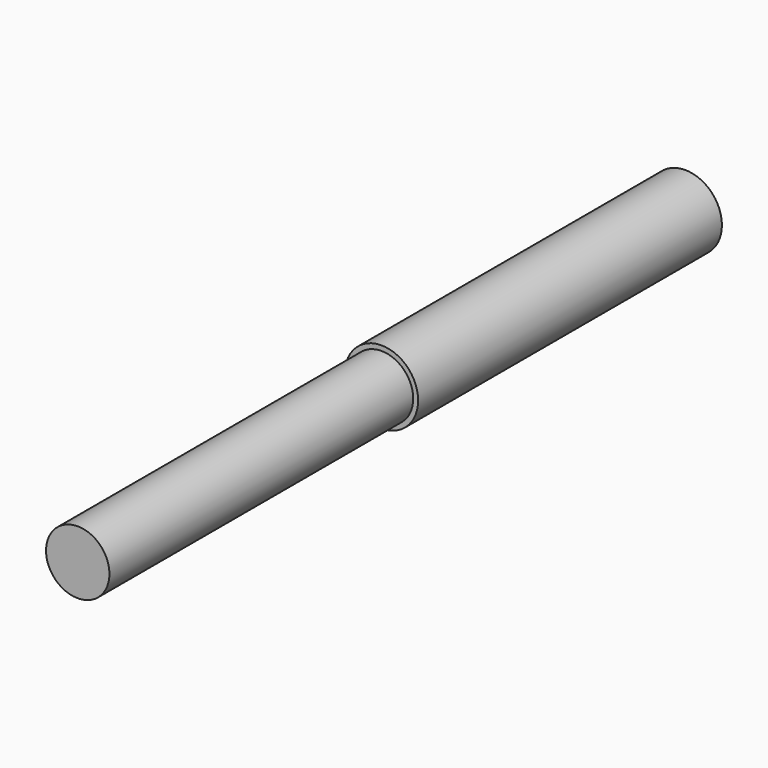
from build123d import *

# Parameters (mm, degrees)
F0_R     = 9.65
F0_R_2   = 8.35
F1_DEPTH = 100
F2_DEPTH = 100


with BuildPart() as f1:
    # F0 (on Front) → F1 (new body)
    with BuildSketch(Plane.XZ):
        Circle(F0_R)
        Circle(F0_R_2, mode=Mode.SUBTRACT)
        Circle(F0_R_2)
    extrude(amount=-F1_DEPTH)

    # F0 (on Front) → F2 (join)
    with BuildSketch(Plane.XZ):
        Circle(F0_R_2)
    extrude(amount=F2_DEPTH)


solid = f1.part
